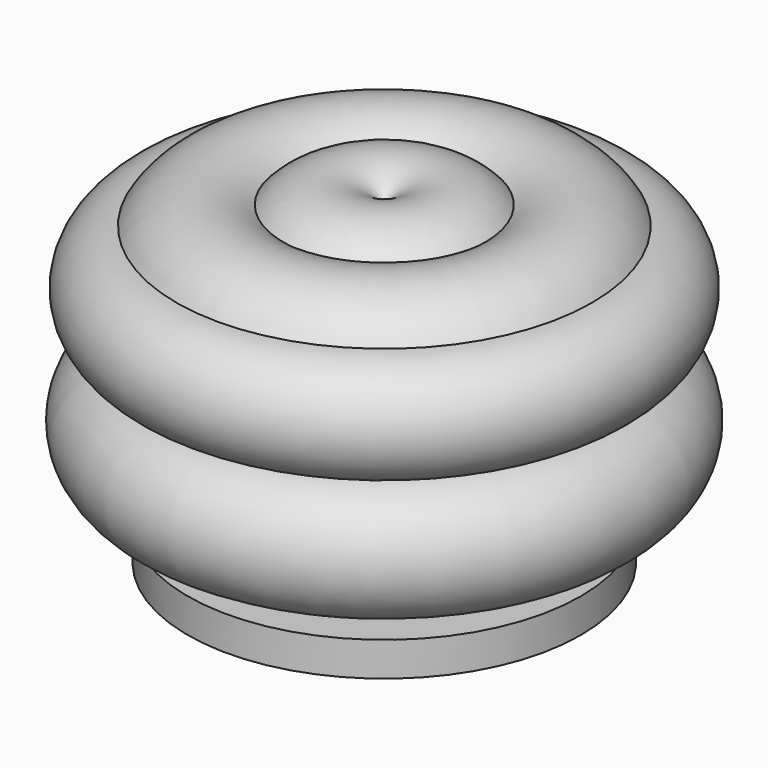
from build123d import *

# Parameters (mm, degrees)
F3_DEPTH = 25.4


with BuildPart() as f1:
    # F0 (on Front) → F1 (revolve)
    with BuildSketch(Plane.XZ):
        with BuildLine():
            Line((0, 55.956364), (0, 0))
            Line((0, 0), (34.941077, 0))
            Line((34.941077, 0), (34.941077, 6.076708))
            Line((34.941077, 6.076708), (23.800446, 6.076708))
            Line((23.800446, 6.076708), (9.621455, 8.861868))
            Line((9.621455, 8.861868), (16.204555, 17.723735))
            Line((16.204555, 17.723735), (25.066426, 21.268483))
            ThreePointArc((25.066426, 21.268483), (43.722055, 14.513075), (36.966644, 33.168703))
            ThreePointArc((36.966644, 33.168703), (46.447192, 42.916758), (36.966644, 52.664813))
            ThreePointArc((36.966644, 52.664813), (28.228364, 58.675451), (17.97693, 55.956364))
            ThreePointArc((17.97693, 55.956364), (8.988465, 59.941395), (0, 55.956364))
        make_face()
    revolve(axis=Axis((0, 0, 27.978182), (0, 0, 1)))

    # F2 (on Front) → F3 (cut)
    with BuildSketch(Plane.XZ):
        Polygon((0, -7.00885), (0, -38.346771), (-20.880766, -41.35178), (-20.880766, -67.967549), (34.497209, -67.967549), (34.497209, -38.776059), (15.179311, -38.776059), (15.179311, -7.00885), align=None)
    extrude(amount=-F3_DEPTH, mode=Mode.SUBTRACT)


solid = f1.part
